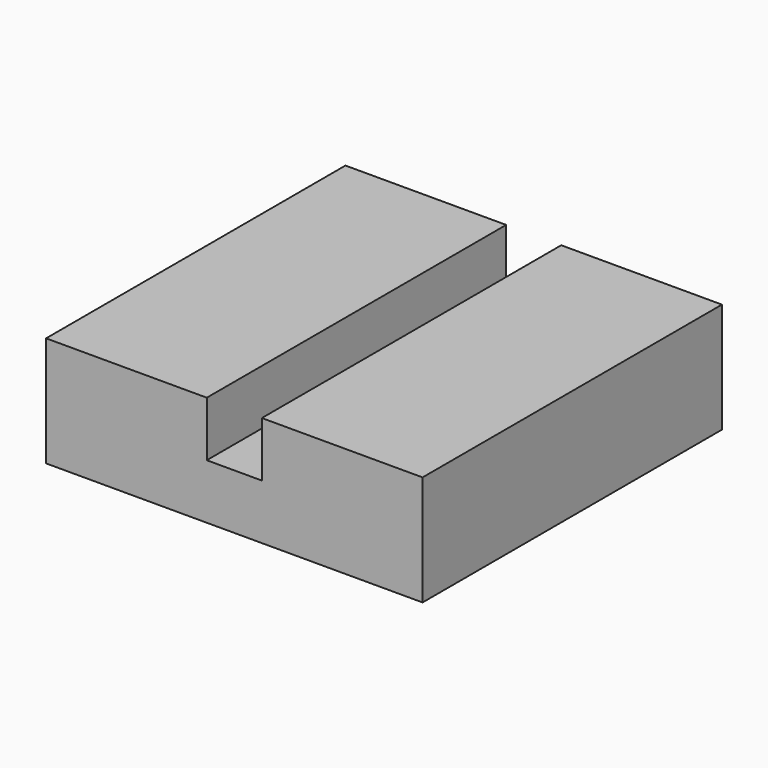
from build123d import *

# Parameters (mm, degrees)
F0_W     = 86.843528
F0_H     = 86.319112
F1_DEPTH = 25.4
F3_DEPTH = 12.7


with BuildPart() as f1:
    # F0 (on Top) → F1 (new body)
    with BuildSketch(Plane.XY):
        Rectangle(F0_W, F0_H)
    extrude(amount=F1_DEPTH)

    # F2 (on face) → F3 (cut)
    with BuildSketch(Plane.XY.offset(25.4)):
        with BuildLine():
            ThreePointArc((6.35, 43.159556), (0, 49.509556), (-6.35, 43.159556))
            Line((-6.35, 43.159556), (-6.35, -43.159556))
            ThreePointArc((-6.35, -43.159556), (0, -49.509556), (6.35, -43.159556))
            Line((6.35, -43.159556), (6.35, 43.159556))
        make_face()
    extrude(amount=-F3_DEPTH, mode=Mode.SUBTRACT)


solid = f1.part
